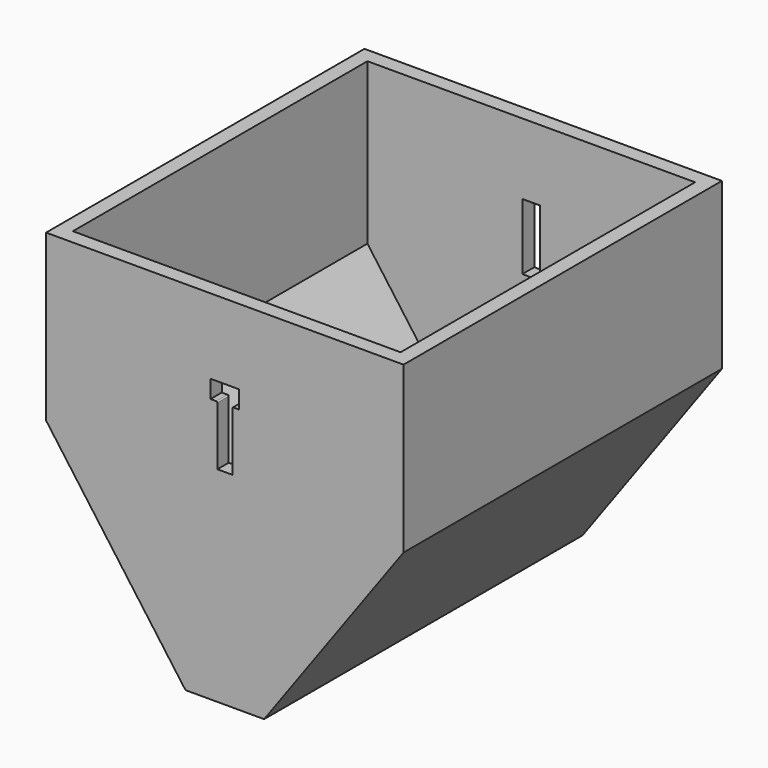
from build123d import *

# Parameters (mm, degrees)
F1_DEPTH = 66.8
F2_T     = -2.5
F3_DEPTH = 25
F5_DEPTH = 25
F6_R     = 0.2
F8_DEPTH = 25
F9_R     = 0.2


with BuildPart() as f1:
    # F0 (on Front) → F1 (new body)
    with BuildSketch(Plane.XZ):
        Polygon((0, -55.9782199562), (0, 4.0217800438), (-30, 4.0217800438), (-30, -23.7439740449), (-6.6, -55.9782199562), align=None)
        Polygon((30, 4.0217800438), (0, 4.0217800438), (0, -55.9782199562), (6.6, -55.9782199562), (30, -23.7439740449), align=None)
    extrude(amount=F1_DEPTH)

    # F2
    f2_openings = [f1.faces().sort_by_distance(p)[0] for p in [
        (0, -33.4, 4.02178),
    ]]
    offset(amount=F2_T, openings=f2_openings)

    # F3 (cut): a face of the model
    f3_faces = [f1.faces().sort_by_distance(p)[0] for p in [
        (0, -33.4, -53.4782199562),
    ]]
    extrude(f3_faces, amount=-F3_DEPTH, mode=Mode.SUBTRACT)

    # F4 (on face) → F5 (cut)
    with BuildSketch(Plane.XZ.offset(66.8)):
        Polygon((-2.4, -8.6), (-2.4, -11.6), (-1.25, -11.6), (-1.25, -21.6), (0, -21.6), (0, -8.6), align=None)
        Polygon((2.4, -8.6), (0, -8.6), (0, -21.6), (1.25, -21.6), (1.25, -11.6), (2.4, -11.6), align=None)
    extrude(amount=-F5_DEPTH, mode=Mode.SUBTRACT)

    # F6
    f6_edges = [f1.edges().sort_by_distance(p)[0] for p in [
        (1.25, -65.55, -11.6),
        (-1.25, -65.55, -11.6),
        (0, -64.3, -8.6),
        (2.4, -64.3, -10.1),
        (1.825, -64.3, -11.6),
        (1.25, -64.3, -16.6),
        (-2.4, -64.3, -10.1),
        (-1.825, -64.3, -11.6),
        (0, -64.3, -21.6),
        (-1.25, -64.3, -16.6),
    ]]
    fillet(f6_edges, radius=F6_R)

    # F7 (on face) → F8 (cut)
    with BuildSketch(Plane(origin=(0, 0, 0), x_dir=(-1, 0, 0), z_dir=(0, 1, 0))):
        Polygon((1.5, -7.9782199562), (0, -7.9782199562), (-1.5, -7.9782199562), (-1.5, -18.9782199562), (0, -18.9782199562), (1.5, -18.9782199562), align=None)
    extrude(amount=-F8_DEPTH, mode=Mode.SUBTRACT)

    # F9
    f9_edges = [f1.edges().sort_by_distance(p)[0] for p in [
        (0, -2.5, -7.97822),
    ]]
    fillet(f9_edges, radius=F9_R)


solid = f1.part
